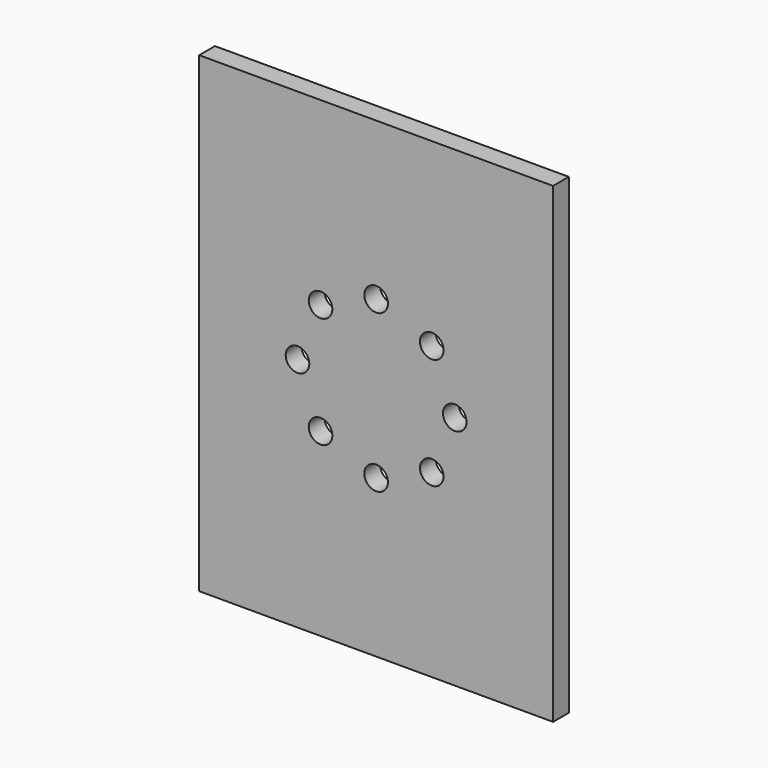
from build123d import *

# Parameters (mm, degrees)
F0_W     = 90
F0_H     = 120
F1_DEPTH = 5
F3_DEPTH = 5
F4_R     = 30
F4_R_2   = 3
F5_DEPTH = 5
F6_DEPTH = 25


with BuildPart() as f1:
    # F0 (on Front) → F1 (new body)
    with BuildSketch(Plane.XZ):
        Rectangle(F0_W, F0_H)
    extrude(amount=F1_DEPTH)

    # F2 (on face) → F3 (join)
    with BuildSketch(Plane(origin=(0, 0, 0), x_dir=(-1, 0, 0), z_dir=(0, 1, 0))):
        with BuildLine():
            Line((-40, -45), (-18, -55))
            Line((-18, -55), (20, -55))
            Line((20, -55), (20, -50))
            ThreePointArc((20, -50), (24.393398, -39.393398), (35, -35))
            Line((35, -35), (40, -35))
            Line((40, -35), (40, 35))
            Line((40, 35), (35, 35))
            ThreePointArc((35, 35), (24.393398, 39.393398), (20, 50))
            Line((20, 50), (20, 55))
            Line((20, 55), (-25, 55))
            ThreePointArc((-25, 55), (-35.606602, 50.606602), (-40, 40))
            Line((-40, 40), (-40, -45))
        make_face()
    extrude(amount=F3_DEPTH)

    # F4 (on face) → F5 (cut)
    with BuildSketch(Plane(origin=(0, 5, 0), x_dir=(-1, 0, 0), z_dir=(0, 1, 0))):
        Circle(F4_R)
        with Locations((-14.14, -14.144271)):
            Circle(F4_R_2, mode=Mode.SUBTRACT)
        with Locations((0, -20)):
            Circle(F4_R_2, mode=Mode.SUBTRACT)
        with Locations((14.14, -14.144271)):
            Circle(F4_R_2, mode=Mode.SUBTRACT)
        with Locations((-20, 0)):
            Circle(F4_R_2, mode=Mode.SUBTRACT)
        with Locations((-14.14, 14.144271)):
            Circle(F4_R_2, mode=Mode.SUBTRACT)
        with Locations((0, 20)):
            Circle(F4_R_2, mode=Mode.SUBTRACT)
        with Locations((14.14, 14.144271)):
            Circle(F4_R_2, mode=Mode.SUBTRACT)
        with Locations((20, 0)):
            Circle(F4_R_2, mode=Mode.SUBTRACT)
    extrude(amount=-F5_DEPTH, mode=Mode.SUBTRACT)

    # F4 (on face) → F6 (cut)
    with BuildSketch(Plane(origin=(0, 5, 0), x_dir=(-1, 0, 0), z_dir=(0, 1, 0))):
        with Locations((-14.14, -14.144271)):
            Circle(F4_R_2)
        with Locations((-20, 0)):
            Circle(F4_R_2)
        with Locations((-14.14, 14.144271)):
            Circle(F4_R_2)
        with Locations((0, 20)):
            Circle(F4_R_2)
        with Locations((14.14, 14.144271)):
            Circle(F4_R_2)
        with Locations((20, 0)):
            Circle(F4_R_2)
        with Locations((14.14, -14.144271)):
            Circle(F4_R_2)
        with Locations((0, -20)):
            Circle(F4_R_2)
    extrude(amount=-F6_DEPTH, mode=Mode.SUBTRACT)


solid = f1.part
